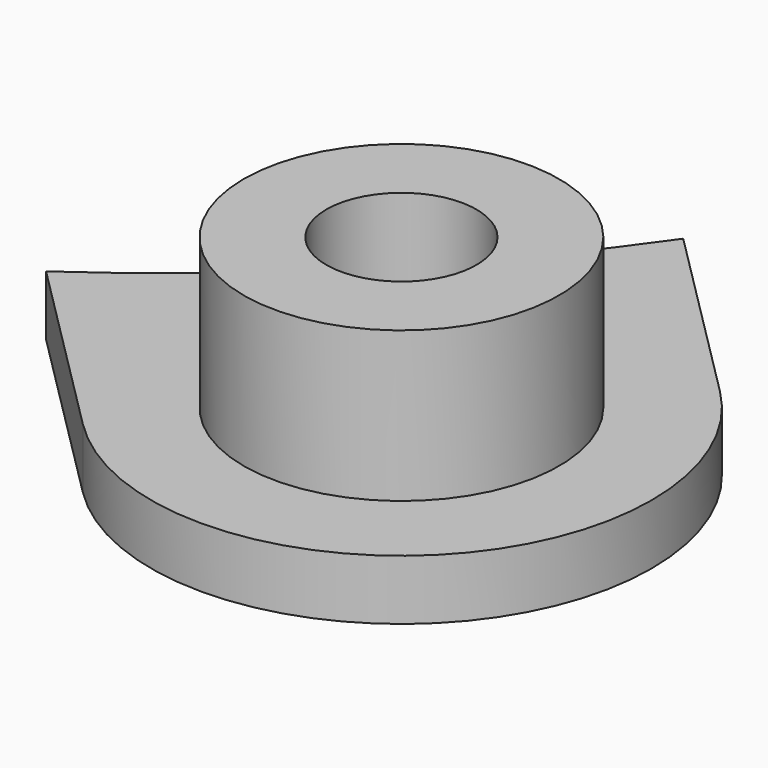
from build123d import *

# Parameters (mm, degrees)
PAD_DEPTH                = 1.2
SKETCH001_R              = 3.15
PAD001_DEPTH             = 3
SKETCH002_R              = 0.8
POCKET_DEPTH             = 4.201
SKETCH003_R              = 1.5
POCKET001_DEPTH          = 5
CLONE001_PLACEMENT_ANGLE = 180


with BuildPart() as part:
    # Sketch → Pad (new body)
    with BuildSketch(Plane.XY):
        with BuildLine():
            ThreePointArc((-19.975767, 27.046834), (-27.046834, 27.046834), (-27.046834, 19.975767))
            Line((-23.375519, 16.304451), (-27.046834, 19.975767))
            ThreePointArc((-16.304451, 23.375519), (-20.152543, 20.152543), (-23.375519, 16.304451))
            Line((-19.975767, 27.046834), (-16.304451, 23.375519))
        make_face()
    extrude(amount=PAD_DEPTH)

    # Sketch001 → Pad001 (new body)
    with BuildSketch(Plane.XY.offset(1.2)):
        with Locations((-23.5113, 23.5113)):
            Circle(SKETCH001_R)
    extrude(amount=PAD001_DEPTH)

    # Sketch002 → Pocket (cut, through all)
    with BuildSketch(Plane.XY.offset(4.2)):
        with Locations((-23.5113, 23.5113)):
            Circle(SKETCH002_R)
    extrude(amount=-POCKET_DEPTH, mode=Mode.SUBTRACT)

    # Sketch003 → Pocket001 (cut)
    with BuildSketch(Plane.XY.offset(4.2)):
        with Locations((-23.5113, 23.5113)):
            Circle(SKETCH003_R)
    extrude(amount=-POCKET001_DEPTH, mode=Mode.SUBTRACT)


with BuildPart() as part_1:
    # Clone001 placement: moved
    add(part.part.rotate(Axis((0, 0, 0), (0, 0, 1)), CLONE001_PLACEMENT_ANGLE))


solid = part_1.part
